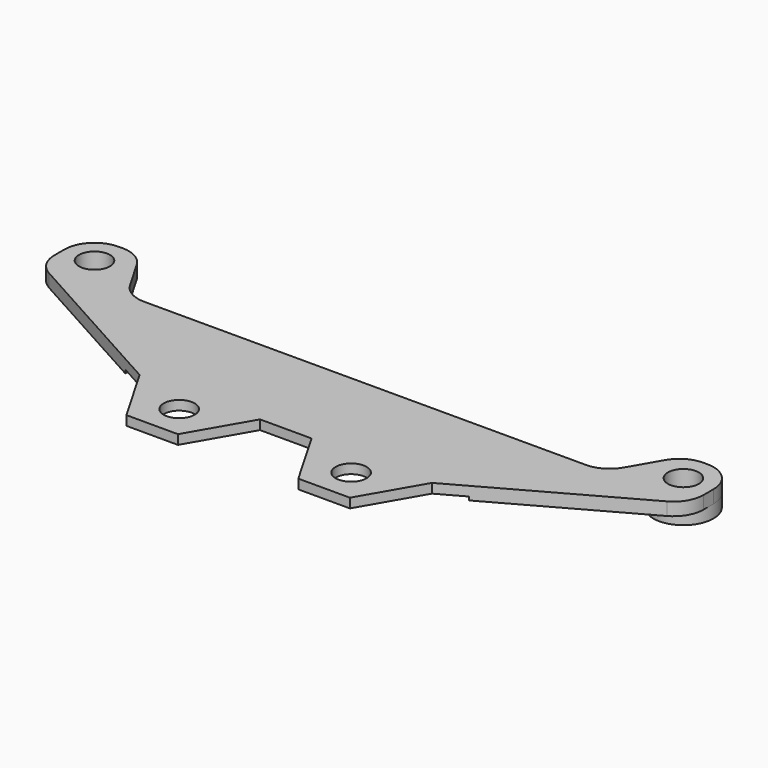
from build123d import *

# Parameters (mm, degrees)
COPYSKETCH005_R         = 1.8
PAD001_DEPTH            = 1.5
SKETCH005_R             = 3.5
SKETCH005_R_2           = 1.8
PAD002_DEPTH            = 1.5
FILLET_R                = 3.49
SKETCH010_W             = 40
SKETCH010_H             = 11
POCKET005_DEPTH         = 0.4
BODY001_PLACEMENT_ANGLE = 180


with BuildPart() as part:
    # CopySketch005 → Pad001 (new body)
    with BuildSketch(Plane.XY):
        Polygon((-13, -3.9282032303), (-7, -3.9282032303), (-3, 3), (3, 3), (7, -3.9282032303), (13, -3.9282032303), (17, 3), (37.75, 14.5), (37.75, 21.5), (31.75, 21.5), (27.7085481157, 14.5), (-27.7085481157, 14.5), (-31.75, 21.5), (-37.75, 21.5), (-37.75, 14.5), (-17, 3), align=None)
        with Locations((-10, 0)):
            Circle(COPYSKETCH005_R, mode=Mode.SUBTRACT)
        with Locations((10, 0)):
            Circle(COPYSKETCH005_R, mode=Mode.SUBTRACT)
        with Locations((34.25, 18)):
            Circle(COPYSKETCH005_R, mode=Mode.SUBTRACT)
        with Locations((-34.25, 18)):
            Circle(COPYSKETCH005_R, mode=Mode.SUBTRACT)
    extrude(amount=PAD001_DEPTH)

    # Sketch005 (on Face22 of Pad001) → Pad002 (join)
    with BuildSketch(Plane.XY.offset(1.5)):
        with Locations((34.25, 18)):
            Circle(SKETCH005_R)
        with Locations((34.25, 18)):
            Circle(SKETCH005_R_2, mode=Mode.SUBTRACT)
        with Locations((-34.25, 18)):
            Circle(SKETCH005_R)
        with Locations((-34.25, 18)):
            Circle(SKETCH005_R_2, mode=Mode.SUBTRACT)
    extrude(amount=PAD002_DEPTH)

    # Fillet
    fillet_edges = [part.edges().sort_by_distance(p)[0] for p in [
        (-31.75, 21.5, 0.75),
        (-37.75, 21.5, 0.75),
        (-27.708548, 14.5, 0.75),
        (27.708548, 14.5, 0.75),
        (31.75, 21.5, 0.75),
        (37.75, 21.5, 0.75),
        (37.75, 14.5, 0.75),
        (-37.75, 14.5, 0.75),
    ]]
    fillet(fillet_edges, radius=FILLET_R)

    # Sketch010 (on Face30 of Fillet) → Pocket005 (cut)
    with BuildSketch(Plane.XY.offset(1.5)):
        Rectangle(SKETCH010_W, SKETCH010_H)
    extrude(amount=-POCKET005_DEPTH, mode=Mode.SUBTRACT)


with BuildPart() as part_1:
    # Body001 placement: moved
    add(part.part.moved(Location((0, 114.6, 3.6))).rotate(Axis((0, 114.6, 3.6), (0, 1, 0)), BODY001_PLACEMENT_ANGLE))


solid = part_1.part
